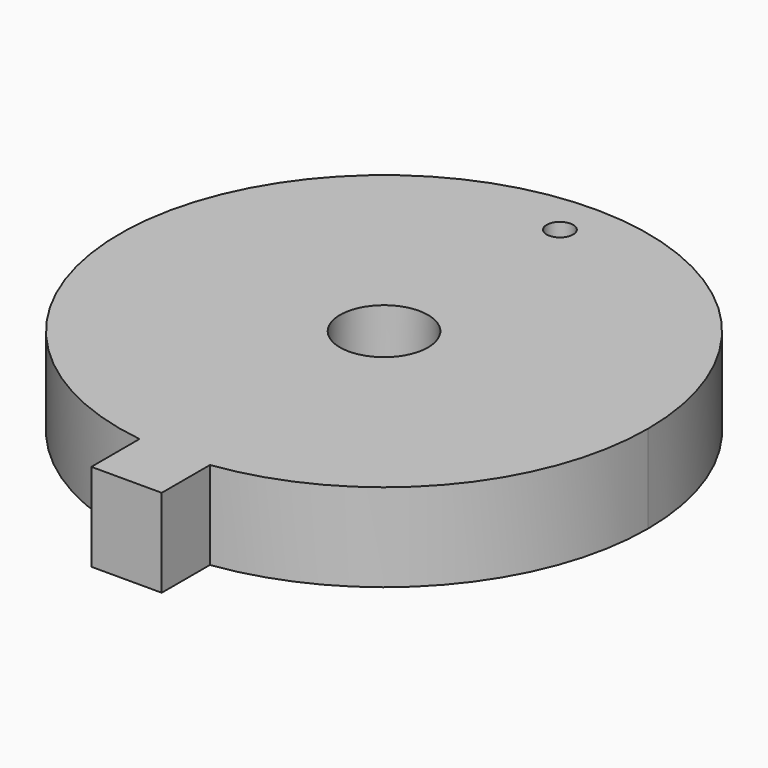
from build123d import *

# Parameters (mm, degrees)
F0_R     = 0.635
F0_R_2   = 0.1905
F1_DEPTH = 1.27


with BuildPart() as f1:
    # F0 (on Top) → F1 (new body)
    with BuildSketch(Plane.XY):
        with BuildLine():
            ThreePointArc((0.508, -3.7759814618), (2.8680638068, -2.5080490426), (3.81, 0))
            ThreePointArc((3.81, 0), (-2.5080490426, 2.8680638068), (-0.508, -3.7759814618))
            Line((-0.508, -3.7759814618), (-0.508, -2.1051138332))
            Line((-0.508, -2.1051138332), (0.508, -2.1051138332))
            Line((0.508, -2.1051138332), (0.508, -3.7759814618))
        make_face()
        Circle(F0_R, mode=Mode.SUBTRACT)
        with Locations((0, 3.1728937756)):
            Circle(F0_R_2, mode=Mode.SUBTRACT)
        with BuildLine():
            Line((-0.508, -2.1051138332), (-0.508, -3.7759814618))
            ThreePointArc((-0.508, -3.7759814618), (0, -3.81), (0.508, -3.7759814618))
            Line((0.508, -3.7759814618), (0.508, -2.1051138332))
            Line((0.508, -2.1051138332), (-0.508, -2.1051138332))
        make_face()
        with BuildLine():
            ThreePointArc((0.508, -3.7759814618), (0, -3.81), (-0.508, -3.7759814618))
            Line((-0.508, -3.7759814618), (-0.508, -4.6451138332))
            Line((-0.508, -4.6451138332), (0.508, -4.6451138332))
            Line((0.508, -4.6451138332), (0.508, -3.7759814618))
        make_face()
    extrude(amount=F1_DEPTH)


solid = f1.part
